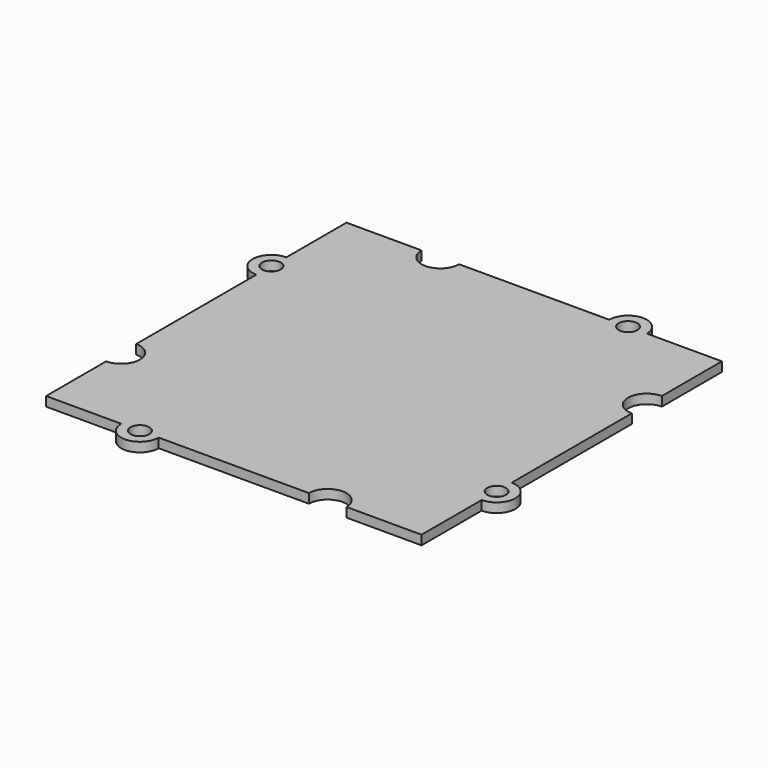
from build123d import *

# Parameters (mm, degrees)
F1_DEPTH = 1
F2_D     = 4
F3_D     = 2


with BuildPart() as f1:
    # F0 (on Top) → F1 (new body)
    with BuildSketch(Plane.XY):
        with BuildLine():
            Line((20, 12), (20, 20))
            Line((20, 20), (12, 20))
            Line((12, 20), (8, 20))
            Line((8, 20), (-8, 20))
            ThreePointArc((-8, 20), (-10, 18), (-12, 20))
            Line((-12, 20), (-20, 20))
            Line((-20, 20), (-20, 12))
            Line((-20, 12), (-20, 8))
            Line((-20, 8), (-20, -8))
            ThreePointArc((-20, -8), (-18.5857864376, -8.5857864376), (-18, -10))
            ThreePointArc((-18, -10), (-18.5857864376, -11.4142135624), (-20, -12))
            Line((-20, -12), (-20, -20))
            Line((-20, -20), (-12, -20))
            Line((-12, -20), (-8, -20))
            Line((-8, -20), (8, -20))
            ThreePointArc((8, -20), (10, -18), (12, -20))
            Line((12, -20), (20, -20))
            Line((20, -20), (20, -12))
            Line((20, -12), (20, -8))
            Line((20, -8), (20, 8))
            ThreePointArc((20, 8), (18, 10), (20, 12))
        make_face()
        with BuildLine():
            Line((8, 20), (12, 20))
            ThreePointArc((12, 20), (10, 22), (8, 20))
        make_face()
        with BuildLine():
            ThreePointArc((22, 10), (21.4142135624, 11.4142135624), (20, 12))
            Line((20, 12), (20, 8))
            ThreePointArc((20, 8), (21.4142135624, 8.5857864376), (22, 10))
        make_face()
        with BuildLine():
            Line((20, 8), (20, 12))
            ThreePointArc((20, 12), (18, 10), (20, 8))
        make_face()
        with BuildLine():
            ThreePointArc((-12, 20), (-10, 18), (-8, 20))
            Line((-8, 20), (-12, 20))
        make_face()
        with BuildLine():
            Line((-12, 20), (-8, 20))
            ThreePointArc((-8, 20), (-10, 22), (-12, 20))
        make_face()
        with BuildLine():
            ThreePointArc((20, -12), (22, -10), (20, -8))
            Line((20, -8), (20, -12))
        make_face()
        with BuildLine():
            Line((-20, 8), (-20, 12))
            ThreePointArc((-20, 12), (-22, 10), (-20, 8))
        make_face()
        with BuildLine():
            ThreePointArc((8, -20), (10, -22), (12, -20))
            Line((12, -20), (8, -20))
        make_face()
        with BuildLine():
            Line((8, -20), (12, -20))
            ThreePointArc((12, -20), (10, -18), (8, -20))
        make_face()
        with BuildLine():
            ThreePointArc((-18, -10), (-18.5857864376, -8.5857864376), (-20, -8))
            Line((-20, -8), (-20, -12))
            ThreePointArc((-20, -12), (-18.5857864376, -11.4142135624), (-18, -10))
        make_face()
        with BuildLine():
            Line((-20, -12), (-20, -8))
            ThreePointArc((-20, -8), (-22, -10), (-20, -12))
        make_face()
        with BuildLine():
            ThreePointArc((-12, -20), (-10, -22), (-8, -20))
            Line((-8, -20), (-12, -20))
        make_face()
    extrude(amount=F1_DEPTH)

    # F2 (through all)
    with Locations(Plane(origin=(0, 0, 0), x_dir=(1, 0, 0), z_dir=(0, 0, -1))):
        with Locations((-20, 10), (-10, -20), (20, -10), (10, 20)):
            Hole(F2_D / 2)

    # F3 (through all)
    with Locations(Plane(origin=(0, 0, 0), x_dir=(1, 0, 0), z_dir=(0, 0, -1))):
        with Locations((10, -20), (-20, -10), (-10, 20), (20, 10)):
            Hole(F3_D / 2)


solid = f1.part
